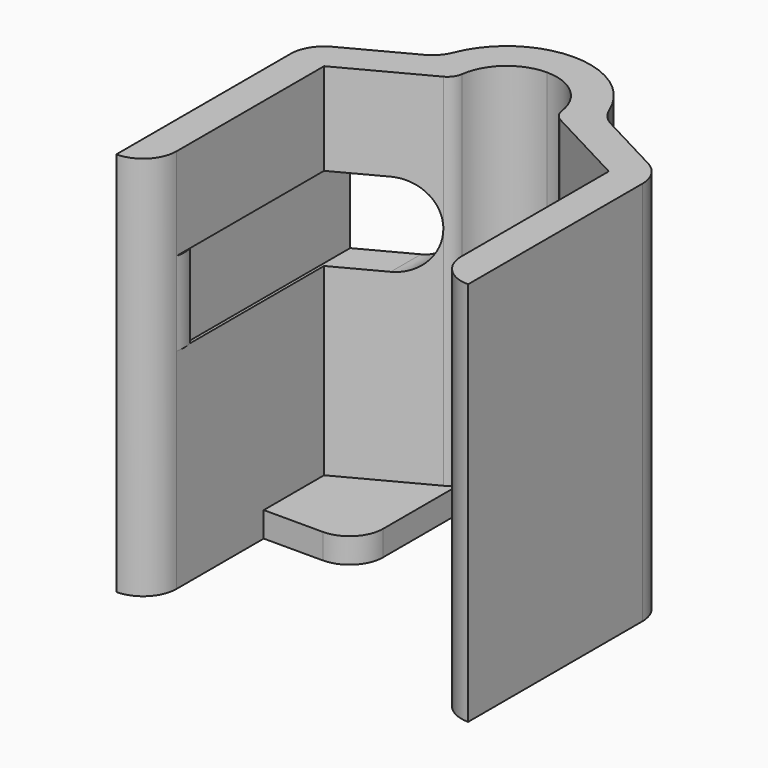
from build123d import *

# Parameters (mm, degrees)
F1_DEPTH      = 23
F3_DEPTH      = 1.5
F6_DEPTH      = 16
F6_DEPTH_BACK = 5
F12_DEPTH     = 5


with BuildPart() as f1:
    # F0 (on Top) → F1 (new body)
    with BuildSketch(Plane.XY):
        with BuildLine():
            ThreePointArc((-2, -19), (-0.5857864376, -18.4142135624), (0, -17))
            Line((0, -17), (0, -6))
            Line((0, -6), (5.0035188667, -3.351078247))
            ThreePointArc((5.0035188667, -3.351078247), (5.3560027951, -3.039121038), (5.5267233597, -2.600467748))
            ThreePointArc((5.5267233597, -2.600467748), (6.5249806021, -0.7418373889), (8.5, 0))
            ThreePointArc((8.5, 0), (10.4750193979, -0.7418373889), (11.4732766403, -2.600467748))
            ThreePointArc((11.4732766403, -2.600467748), (11.6439972049, -3.039121038), (11.9964811333, -3.351078247))
            Line((11.9964811333, -3.351078247), (17, -6))
            Line((17, -6), (17, -17))
            ThreePointArc((17, -17), (17.5857864376, -18.4142135624), (19, -19))
            Line((19, -19), (19, -6))
            ThreePointArc((19, -6), (18.7134104706, -4.9683873987), (17.9357754408, -4.2324241673))
            Line((17.9357754408, -4.2324241673), (14.0709253105, -2.1863270395))
            ThreePointArc((14.0709253105, -2.1863270395), (13.5173932527, -1.7536531412), (13.1476433938, -1.156250862))
            ThreePointArc((13.1476433938, -1.156250862), (11.3090260154, 1.1363477665), (8.5, 2))
            ThreePointArc((8.5, 2), (5.6909739846, 1.1363477665), (3.8523566062, -1.156250862))
            ThreePointArc((3.8523566062, -1.156250862), (3.4826067473, -1.7536531412), (2.9290746895, -2.1863270395))
            Line((2.9290746895, -2.1863270395), (-0.9357754408, -4.2324241673))
            ThreePointArc((-0.9357754408, -4.2324241673), (-1.7134104706, -4.9683873987), (-2, -6))
            Line((-2, -6), (-2, -19))
        make_face()
    extrude(amount=F1_DEPTH)

    # F2 (on face) → F3 (join)
    with BuildSketch(Plane(origin=(0, 0, 0), x_dir=(1, 0, 0), z_dir=(0, 0, -1))):
        with BuildLine():
            Line((0, 10.5), (0, 6))
            Line((0, 6), (5.0035188667, 3.351078247))
            ThreePointArc((5.0035188667, 3.351078247), (5.3560027951, 3.039121038), (5.5267233597, 2.600467748))
            Line((5.5267233597, 2.600467748), (5.5267233597, 8.5))
            ThreePointArc((5.5267233597, 8.5), (4.9409369221, 9.9142135624), (3.5267233597, 10.5))
            Line((3.5267233597, 10.5), (0, 10.5))
        make_face()
        with BuildLine():
            Line((11.4732766403, 8.5), (11.4732766403, 2.600467748))
            ThreePointArc((11.4732766403, 2.600467748), (11.6439972049, 3.039121038), (11.9964811333, 3.351078247))
            Line((11.9964811333, 3.351078247), (17, 6))
            Line((17, 6), (17, 10.5))
            Line((17, 10.5), (13.4732766403, 10.5))
            ThreePointArc((13.4732766403, 10.5), (12.0590630779, 9.9142135624), (11.4732766403, 8.5))
        make_face()
    extrude(amount=-F3_DEPTH)


with BuildPart() as f6:
    # F5 (on Front) → F6 (new body, two sides)
    with BuildSketch(Plane.XZ) as f6_sk:
        with BuildLine():
            Line((-0.1767575833, 17.5), (-0.1767575833, 12.5))
            Line((-0.1767575833, 12.5), (0, 12.5))
            Line((0, 12.5), (2.7940490758, 12.5))
            add(Edge.make_bspline(
                [(2.7940490758, 12.5), (5.0035188667, 12.5), (5.0035188667, 15), (5.0035188667, 17.5), (2.7940490758, 17.5)],
                knots=[0, 0, 0, 1.5707963268, 1.5707963268, 3.1415926536, 3.1415926536, 3.1415926536], degree=2, weights=[1, 0.7071067812, 1, 0.7071067812, 1]))
            Line((2.7940490758, 17.5), (0, 17.5))
            Line((0, 17.5), (-0.1767575833, 17.5))
        make_face()
    extrude(amount=F6_DEPTH)
    extrude(f6_sk.sketch, amount=-F6_DEPTH_BACK)


with BuildPart() as f8_1:
    # F8: instance of F6
    add(f6.part.mirror(Plane.YZ.offset(8.5)))


with BuildPart() as f1_1:
    add(f1.part)

    # F9: cut F8_1, F6
    add(f8_1.part, mode=Mode.SUBTRACT)
    add(f6.part, mode=Mode.SUBTRACT)

    # F11 (on offset) → F12 (join)
    with BuildSketch(Plane.XY.offset(12.5)):
        with BuildLine():
            ThreePointArc((0, -17), (0.0635083269, -16.5), (0, -16))
            Line((0, -16), (0, -17))
        make_face()
    extrude(amount=F12_DEPTH)

    # F13: F1 across plane


with BuildPart() as f1_2:
    add(f1_1.part)
    add(f1_1.part.mirror(Plane.YZ.offset(8.5)))


solid = f1_2.part
